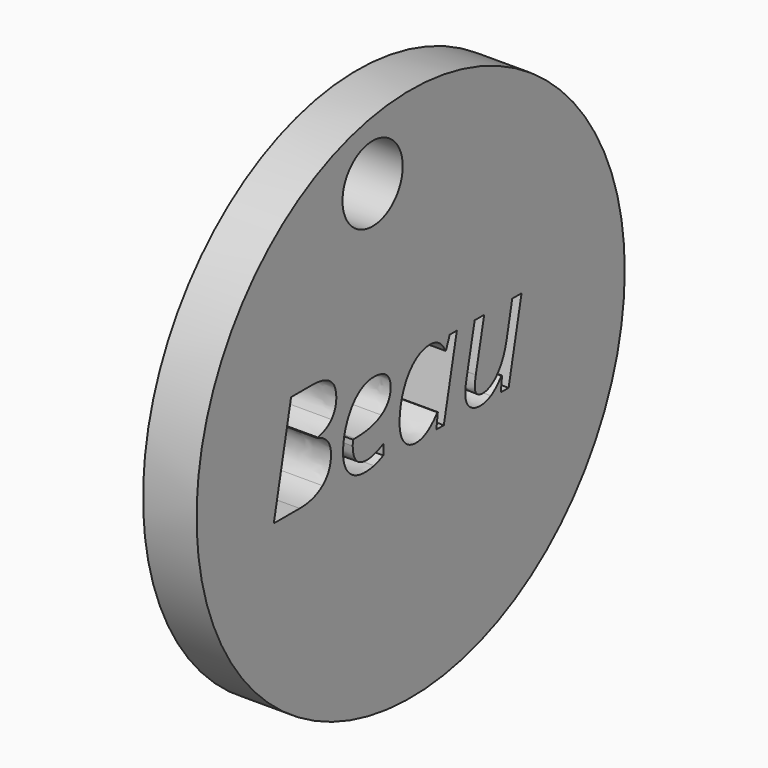
from build123d import *

# Parameters (mm, degrees)
F0_R     = 25
F0_R_2   = 3.517009594
F1_DEPTH = 5


with BuildPart() as f1:
    # F0 (on Right) → F1 (new body)
    with BuildSketch(Plane.YZ):
        Circle(F0_R)
        with BuildLine():
            add(Edge.make_bspline(
                [(-4.2770959996, -4.1764053417), (-4.7479386555, -4.2915002132), (-5.3150424766, -4.2915002132)],
                knots=[0, 0, 0, 1, 1, 1], degree=2))
            add(Edge.make_bspline(
                [(-5.3150424766, -4.2915002132), (-6.5183070416, -4.2915002132), (-7.2057373192, -3.5779120103)],
                knots=[0, 0, 0, 1, 1, 1], degree=2))
            add(Edge.make_bspline(
                [(-7.2057373192, -3.5779120103), (-7.8931675968, -2.8643238073), (-7.8931675968, -1.6024654896)],
                knots=[0, 0, 0, 1, 1, 1], degree=2))
            add(Edge.make_bspline(
                [(-7.8931675968, -1.6024654896), (-7.8931675968, -0.3740893162), (-7.4055838687, 0.7548867409)],
                knots=[0, 0, 0, 1, 1, 1], degree=2))
            add(Edge.make_bspline(
                [(-7.4055838687, 0.7548867409), (-6.9180001406, 1.883862798), (-6.1133823575, 2.5116530059)],
                knots=[0, 0, 0, 1, 1, 1], degree=2))
            add(Edge.make_bspline(
                [(-6.1133823575, 2.5116530059), (-5.3087645745, 3.1394432137), (-4.3419676544, 3.1394432137)],
                knots=[0, 0, 0, 1, 1, 1], degree=2))
            add(Edge.make_bspline(
                [(-4.3419676544, 3.1394432137), (-3.3416885899, 3.1394432137), (-2.8373637896, 2.7041753363)],
                knots=[0, 0, 0, 1, 1, 1], degree=2))
            add(Edge.make_bspline(
                [(-2.8373637896, 2.7041753363), (-2.3330389893, 2.2689074588), (-2.3330389893, 1.4904476011)],
                knots=[0, 0, 0, 1, 1, 1], degree=2))
            add(Edge.make_bspline(
                [(-2.3330389893, 1.4904476011), (-2.3330389893, 0.3143872784), (-3.4191160489, -0.356301927)],
                knots=[0, 0, 0, 1, 1, 1], degree=2))
            add(Edge.make_bspline(
                [(-3.4191160489, -0.356301927), (-4.5051931084, -1.0269911324), (-6.5266775777, -1.0269911324)],
                knots=[0, 0, 0, 1, 1, 1], degree=2))
            Line((-6.5266775777, -1.0269911324), (-6.7422188824, -1.0269911324))
            Line((-6.7422188824, -1.0269911324), (-6.7673304907, -1.5501496389))
            add(Edge.make_bspline(
                [(-6.7673304907, -1.5501496389), (-6.7673304907, -2.4060369556), (-6.3655447577, -2.8873427816)],
                knots=[0, 0, 0, 1, 1, 1], degree=2))
            add(Edge.make_bspline(
                [(-6.3655447577, -2.8873427816), (-5.9637590247, -3.3686486076), (-5.1204275121, -3.3686486076)],
                knots=[0, 0, 0, 1, 1, 1], degree=2))
            add(Edge.make_bspline(
                [(-5.1204275121, -3.3686486076), (-4.708178609, -3.3686486076), (-4.2729107315, -3.2504147852)],
                knots=[0, 0, 0, 1, 1, 1], degree=2))
            add(Edge.make_bspline(
                [(-4.2729107315, -3.2504147852), (-3.8376428541, -3.1321809627), (-3.19101894, -2.8182858588)],
                knots=[0, 0, 0, 1, 1, 1], degree=2))
            Line((-3.19101894, -2.8182858588), (-3.19101894, -3.7746196087))
            add(Edge.make_bspline(
                [(-3.19101894, -3.7746196087), (-3.8062533437, -4.0613104703), (-4.2770959996, -4.1764053417)],
                knots=[0, 0, 0, 1, 1, 1], degree=2))
        make_face(mode=Mode.SUBTRACT)
        with BuildLine():
            add(Edge.make_bspline(
                [(0.4574884846, 2.4781708614), (1.2746620718, 3.1394432137), (2.249829528, 3.1394432137)],
                knots=[0, 0, 0, 1, 1, 1], degree=2))
            add(Edge.make_bspline(
                [(2.249829528, 3.1394432137), (2.8504154935, 3.1394432137), (3.3212581494, 2.8150849397)],
                knots=[0, 0, 0, 1, 1, 1], degree=2))
            add(Edge.make_bspline(
                [(3.3212581494, 2.8150849397), (3.7921008053, 2.4907266656), (4.0536800586, 1.883862798)],
                knots=[0, 0, 0, 1, 1, 1], degree=2))
            Line((4.0536800586, 1.883862798), (4.1269222495, 1.883862798))
            Line((4.1269222495, 1.883862798), (4.5642827609, 3.0076072701))
            Line((4.5642827609, 3.0076072701), (5.3950584693, 3.0076072701))
            Line((5.3950584693, 3.0076072701), (3.8716208983, -4.1596642695))
            Line((3.8716208983, -4.1596642695), (3.0010851434, -4.1596642695))
            Line((3.0010851434, -4.1596642695), (3.1726811335, -2.7931742505))
            Line((3.1726811335, -2.7931742505), (3.1203652829, -2.7931742505))
            add(Edge.make_bspline(
                [(3.1203652829, -2.7931742505), (1.9484902282, -4.2915002132), (0.653149766, -4.2915002132)],
                knots=[0, 0, 0, 1, 1, 1], degree=2))
            add(Edge.make_bspline(
                [(0.653149766, -4.2915002132), (-0.2550534013, -4.2915002132), (-0.7719340058, -3.6438299821)],
                knots=[0, 0, 0, 1, 1, 1], degree=2))
            add(Edge.make_bspline(
                [(-0.7719340058, -3.6438299821), (-1.2888146102, -2.996159751), (-1.2888146102, -1.8703226449)],
                knots=[0, 0, 0, 1, 1, 1], degree=2))
            add(Edge.make_bspline(
                [(-1.2888146102, -1.8703226449), (-1.2888146102, -0.5101105279), (-0.8242498564, 0.6533939906)],
                knots=[0, 0, 0, 1, 1, 1], degree=2))
            add(Edge.make_bspline(
                [(-0.8242498564, 0.6533939906), (-0.3596851026, 1.8168985092), (0.4574884846, 2.4781708614)],
                knots=[0, 0, 0, 1, 1, 1], degree=2))
        make_face(mode=Mode.SUBTRACT)
        with BuildLine():
            Line((7.4751366913, 3.0076072701), (8.5863253592, 3.0076072701))
            Line((8.5863253592, 3.0076072701), (7.606972635, -1.5375938348))
            add(Edge.make_bspline(
                [(7.606972635, -1.5375938348), (7.4876924955, -2.119346094), (7.4876924955, -2.4457970021)],
                knots=[0, 0, 0, 1, 1, 1], degree=2))
            add(Edge.make_bspline(
                [(7.4876924955, -2.4457970021), (7.4876924955, -3.3812044118), (8.4503041475, -3.3812044118)],
                knots=[0, 0, 0, 1, 1, 1], degree=2))
            add(Edge.make_bspline(
                [(8.4503041475, -3.3812044118), (9.0257785047, -3.3812044118), (9.5813728387, -2.9888355319)],
                knots=[0, 0, 0, 1, 1, 1], degree=2))
            add(Edge.make_bspline(
                [(9.5813728387, -2.9888355319), (10.1369671726, -2.596466652), (10.5617718799, -1.8640447428)],
                knots=[0, 0, 0, 1, 1, 1], degree=2))
            add(Edge.make_bspline(
                [(10.5617718799, -1.8640447428), (10.9865765872, -1.1316228337), (11.210488428, -0.0978616248)],
                knots=[0, 0, 0, 1, 1, 1], degree=2))
            Line((11.210488428, -0.0978616248), (11.8633902442, 3.0076072701))
            Line((11.8633902442, 3.0076072701), (12.9494673038, 3.0076072701))
            Line((12.9494673038, 3.0076072701), (11.4385855369, -4.1596642695))
            Line((11.4385855369, -4.1596642695), (10.5303823695, -4.1596642695))
            Line((10.5303823695, -4.1596642695), (10.6726814833, -2.832934297))
            Line((10.6726814833, -2.832934297), (10.5952540243, -2.832934297))
            add(Edge.make_bspline(
                [(10.5952540243, -2.832934297), (9.9549080123, -3.6490615672), (9.372109436, -3.9702808902)],
                knots=[0, 0, 0, 1, 1, 1], degree=2))
            add(Edge.make_bspline(
                [(9.372109436, -3.9702808902), (8.7893108598, -4.2915002132), (8.167798554, -4.2915002132)],
                knots=[0, 0, 0, 1, 1, 1], degree=2))
            add(Edge.make_bspline(
                [(8.167798554, -4.2915002132), (7.3307449435, -4.2915002132), (6.8536243856, -3.8363523125)],
                knots=[0, 0, 0, 1, 1, 1], degree=2))
            add(Edge.make_bspline(
                [(6.8536243856, -3.8363523125), (6.3765038276, -3.3812044118), (6.3765038276, -2.5378728993)],
                knots=[0, 0, 0, 1, 1, 1], degree=2))
            add(Edge.make_bspline(
                [(6.3765038276, -2.5378728993), (6.3765038276, -2.1319018982), (6.5208955754, -1.4120357932)],
                knots=[0, 0, 0, 1, 1, 1], degree=2))
            Line((6.5208955754, -1.4120357932), (7.4751366913, 3.0076072701))
        make_face(mode=Mode.SUBTRACT)
        with BuildLine():
            Line((-13.9618062727, 5.401580596), (-11.509239194, 5.401580596))
            add(Edge.make_bspline(
                [(-11.509239194, 5.401580596), (-8.6841832587, 5.401580596), (-8.6841832587, 3.2043148685)],
                knots=[0, 0, 0, 1, 1, 1], degree=2))
            add(Edge.make_bspline(
                [(-8.6841832587, 3.2043148685), (-8.6841832587, 2.281463263), (-9.2523333968, 1.6473951531)],
                knots=[0, 0, 0, 1, 1, 1], degree=2))
            add(Edge.make_bspline(
                [(-9.2523333968, 1.6473951531), (-9.8204835349, 1.0133270431), (-10.8542447438, 0.8228973468)],
                knots=[0, 0, 0, 1, 1, 1], degree=2))
            Line((-10.8542447438, 0.8228973468), (-10.8542447438, 0.7580256919))
            add(Edge.make_bspline(
                [(-10.8542447438, 0.7580256919), (-10.1029891284, 0.5487622893), (-9.7001570784, 0.0350206359)],
                knots=[0, 0, 0, 1, 1, 1], degree=2))
            add(Edge.make_bspline(
                [(-9.7001570784, 0.0350206359), (-9.2973250284, -0.4787210175), (-9.2973250284, -1.1964944885)],
                knots=[0, 0, 0, 1, 1, 1], degree=2))
            add(Edge.make_bspline(
                [(-9.2973250284, -1.1964944885), (-9.2973250284, -2.5839108478), (-10.2913261908, -3.3717875587)],
                knots=[0, 0, 0, 1, 1, 1], degree=2))
            add(Edge.make_bspline(
                [(-10.2913261908, -3.3717875587), (-11.2853273532, -4.1596642695), (-12.9531566721, -4.1596642695)],
                knots=[0, 0, 0, 1, 1, 1], degree=2))
            Line((-12.9531566721, -4.1596642695), (-15.9811981079, -4.1596642695))
            Line((-15.9811981079, -4.1596642695), (-13.9618062727, 5.401580596))
        make_face(mode=Mode.SUBTRACT)
        with Locations((-4.4432776049, 19.0966390073)):
            Circle(F0_R_2, mode=Mode.SUBTRACT)
    extrude(amount=F1_DEPTH)


solid = f1.part
